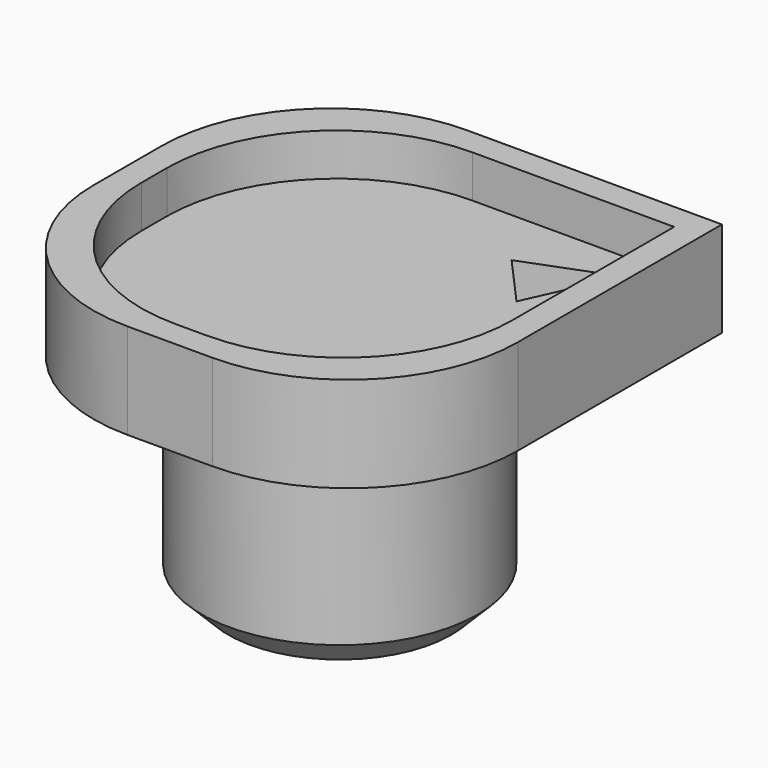
from build123d import *

# Parameters (mm, degrees)
F0_W     = 25.4
F0_H     = 25.4
F1_DEPTH = 3.175
F2_W     = 25.4
F2_H     = 25.4
F2_W_2   = 22.225
F2_H_2   = 22.225
F3_DEPTH = 2.54
F5_DEPTH = 25.4
F6_R     = 8.255
F6_R_2   = 3.175
F7_DEPTH = 12.7
F8_R     = 10.16
F9_SIZE  = 1.5875


with BuildPart() as f1:
    # F0 (on Top) → F1 (new body)
    with BuildSketch(Plane.XY):
        Rectangle(F0_W, F0_H)
    extrude(amount=F1_DEPTH)

    # F2 (on face) → F3 (join)
    with BuildSketch(Plane.XY.offset(3.175)):
        Rectangle(F2_W, F2_H)
        Rectangle(F2_W_2, F2_H_2, mode=Mode.SUBTRACT)
    extrude(amount=F3_DEPTH)

    # F4 (on face) → F5 (cut)
    with BuildSketch(Plane.XY.offset(3.175)):
        Polygon((7.026218, 4.432465), (9.295024, 9.48628), (4.236917, 7.549808), align=None)
    extrude(amount=-F5_DEPTH, mode=Mode.SUBTRACT)

    # F6 (on face) → F7 (join)
    with BuildSketch(Plane(origin=(0, 0, 0), x_dir=(1, 0, 0), z_dir=(0, 0, -1))):
        Circle(F6_R)
        Circle(F6_R_2, mode=Mode.SUBTRACT)
    extrude(amount=F7_DEPTH)

    # F8
    f8_edges = [f1.edges().sort_by_distance(p)[0] for p in [
        (12.7, -12.7, 2.8575),
        (-12.7, -12.7, 2.8575),
        (-11.1125, -11.1125, 4.445),
        (11.1125, -11.1125, 4.445),
        (-11.1125, 11.1125, 4.445),
        (-12.7, 12.7, 2.8575),
    ]]
    fillet(f8_edges, radius=F8_R)

    # F9
    f9_edges = [f1.edges().sort_by_distance(p)[0] for p in [
        (-8.255, 0, -12.7),
    ]]
    chamfer(f9_edges, length=F9_SIZE)


solid = f1.part
